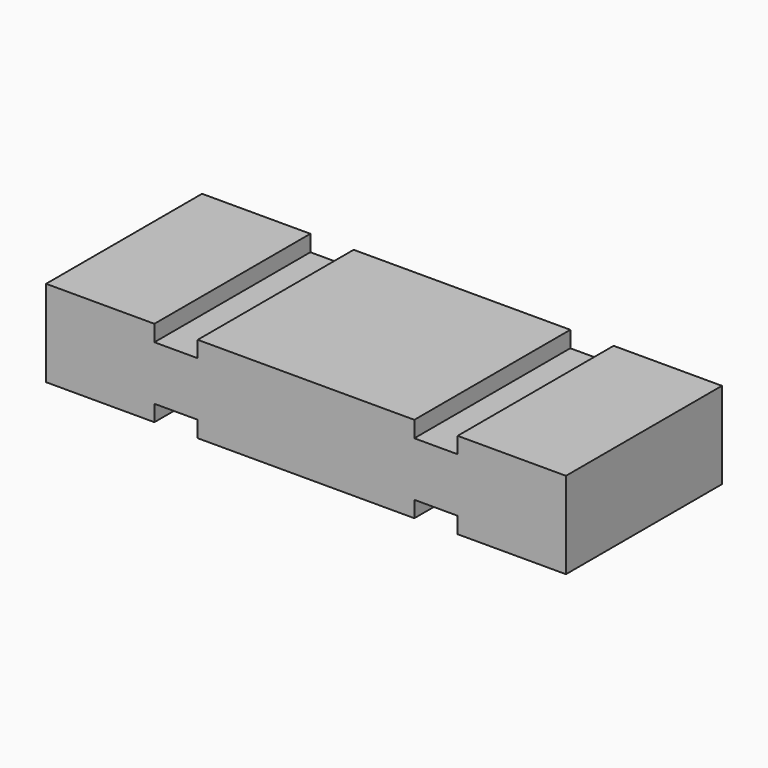
from build123d import *

# Parameters (mm, degrees)
F1_DEPTH = 457.2


with BuildPart() as f1:
    # F0 (on Front) → F1 (new body, symmetric)
    with BuildSketch(Plane.XZ):
        Polygon((-711.2, 203.2), (-1219.2, 203.2), (-1219.2, -203.2), (-711.2, -203.2), (-711.2, -127), (-508, -127), (-508, -203.2), (508, -203.2), (508, -127), (711.2, -127), (711.2, -203.2), (1219.2, -203.2), (1219.2, 203.2), (711.2, 203.2), (711.2, 127), (508, 127), (508, 203.2), (-508, 203.2), (-508, 127), (-711.2, 127), align=None)
    extrude(amount=F1_DEPTH, both=True)


solid = f1.part
